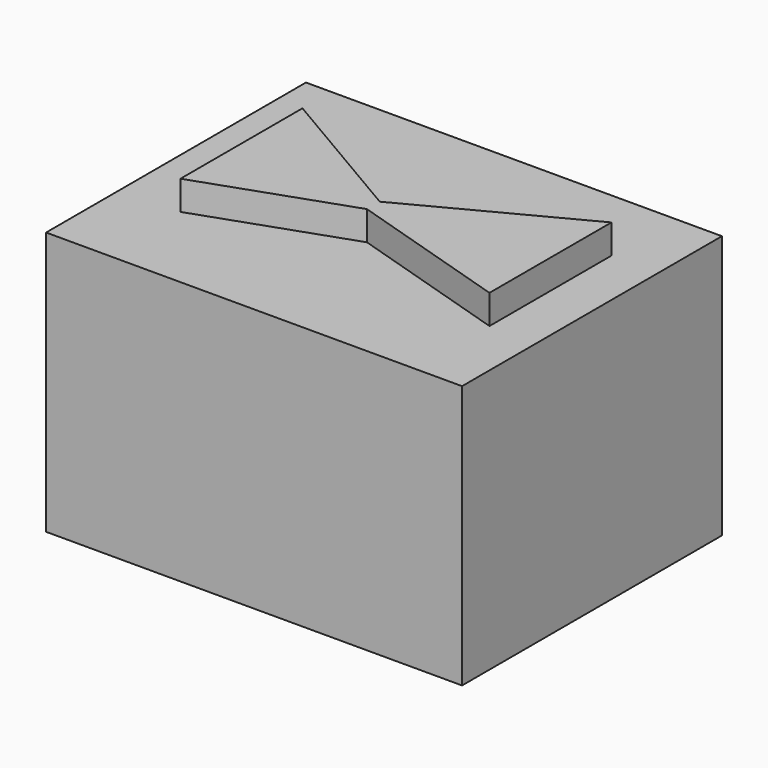
from build123d import *

# Parameters (mm, degrees)
F0_W     = 65.05388394
F0_H     = 41.2077661604
F1_DEPTH = 25.4
F2_W     = 65.05388394
F2_H     = 41.2077661604
F3_DEPTH = 25.4
F5_DEPTH = 4.572


with BuildPart() as f1:
    # F0 (on Front) → F1 (new body)
    with BuildSketch(Plane.XZ):
        with Locations((0.313764438, -2.9284702614)):
            Rectangle(F0_W, F0_H)
    extrude(amount=F1_DEPTH)

    # F2 (on face) → F3 (join)
    with BuildSketch(Plane.XZ.offset(25.4)):
        with Locations((0.313764438, -2.9284702614)):
            Rectangle(F2_W, F2_H)
        Polygon((-23.4277658165, -9.0991770849), (-23.4277658165, 2.8238825034), (0, -3.2422353979), align=None, mode=Mode.SUBTRACT)
        Polygon((20.9176484495, -9.0991770849), (0, -3.2422353979), (20.9176484495, 2.8238825034), align=None, mode=Mode.SUBTRACT)
        Polygon((0, -3.2422353979), (-23.4277658165, 2.8238825034), (-23.4277658165, -9.0991770849), align=None)
        Polygon((20.9176484495, 2.8238825034), (0, -3.2422353979), (20.9176484495, -9.0991770849), align=None)
    extrude(amount=F3_DEPTH)

    # F4 (on face) → F5 (join)
    with BuildSketch(Plane.XY.offset(17.6754128188)):
        Polygon((0, -25.8332956582), (-22.8002350777, -12.4460002407), (-22.8002350777, -36.292117089), (0, -28.3434130251), (25.5195293576, -36.292117089), (25.5195293576, -12.4460002407), align=None)
    extrude(amount=F5_DEPTH)


solid = f1.part
